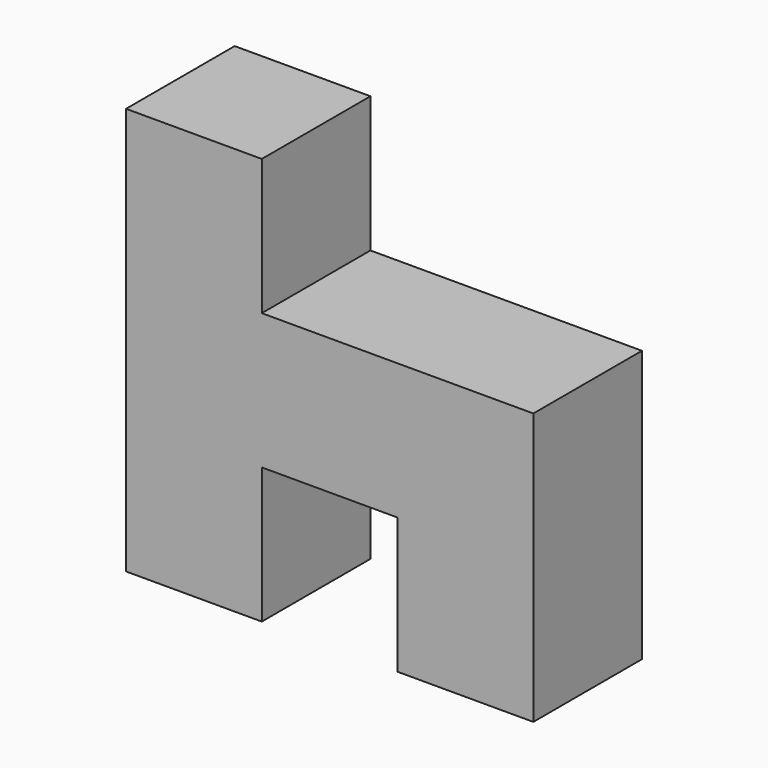
from build123d import *

# Parameters (mm, degrees)
F0_W     = 18.9951807261
F0_H     = 18.9951807261
F0_W_2   = 18.9951797947
F1_DEPTH = 18.9992


with BuildPart() as f1:
    # F0 (on Front) → F1 (new body)
    with BuildSketch(Plane.XZ):
        with Locations((-58.4245696664, -28.4927710891)):
            Rectangle(F0_W, F0_H)
        with Locations((-58.4245696664, 9.497590363)):
            Rectangle(F0_W, F0_H)
        with Locations((-58.4245696664, -9.497590363)):
            Rectangle(F0_W, F0_H)
        with Locations((-39.4293889403, -9.497590363)):
            Rectangle(F0_W, F0_H)
        with Locations((-20.4342086799, -9.497590363)):
            Rectangle(F0_W_2, F0_H)
        with Locations((-20.4342086799, -28.4927710891)):
            Rectangle(F0_W_2, F0_H)
    extrude(amount=F1_DEPTH)


solid = f1.part
